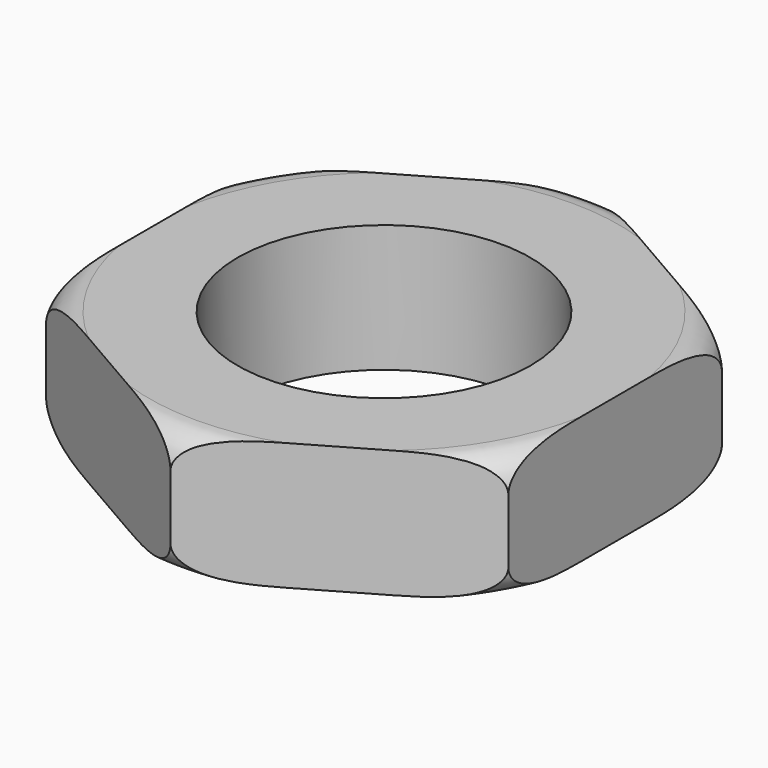
from build123d import *

# Parameters (mm, degrees)
F1_DEPTH = 25.4
F2_R     = 29.1814766443
F3_DEPTH = 25.4


with BuildPart() as f1:
    # F0 (on Top) → F1 (new body)
    with BuildSketch(Plane.XY):
        Polygon((46.0779853165, -26.6031372262), (46.0779853165, 26.6031372262), (0, 53.2062744524), (-46.0779853165, 26.6031372262), (-46.0779853165, -26.6031372262), (0, -53.2062744524), align=None)
    extrude(amount=F1_DEPTH)

    # F2 (on face) → F3 (cut)
    with BuildSketch(Plane.XY.offset(25.4)):
        Circle(F2_R)
    extrude(amount=-F3_DEPTH, mode=Mode.SUBTRACT)

    # F4 (on Right) → F5 (revolve, cut)
    with BuildSketch(Plane.YZ):
        with BuildLine():
            Line((53.2062744524, 25.4), (46.8562744524, 25.4))
            ThreePointArc((46.8562744524, 25.4), (51.3464025129, 23.5401280605), (53.2062744524, 19.05))
            Line((53.2062744524, 19.05), (53.2062744524, 25.4))
        make_face()
    revolve(axis=Axis((0, 0, 25.4), (0, 0, 1)), mode=Mode.SUBTRACT)

    # F6 (on Right) → F7 (revolve, cut)
    with BuildSketch(Plane.YZ):
        with BuildLine():
            Line((53.2062744524, 0), (53.2062744524, 6.35))
            ThreePointArc((53.2062744524, 6.35), (51.3464025129, 1.8598719395), (46.8562744524, 0))
            Line((46.8562744524, 0), (53.2062744524, 0))
        make_face()
    revolve(axis=Axis((0, 0, 25.4), (0, 0, 1)), mode=Mode.SUBTRACT)


solid = f1.part
